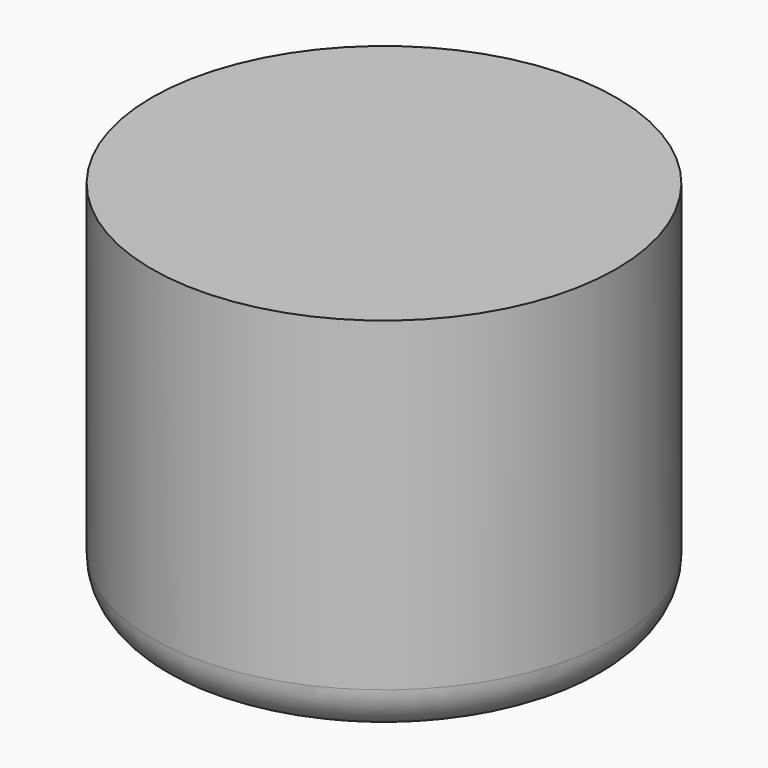
from build123d import *

# Parameters (mm, degrees)
F0_W = 12.7
F0_H = 20.32
F2_R = 2.54


with BuildPart() as f1:
    # F0 (on Front) → F1 (revolve)
    with BuildSketch(Plane.XZ):
        with Locations((-6.35, -35.580232)):
            Rectangle(F0_W, F0_H)
    revolve(axis=Axis((0, 0, -35.580232), (0, 0, -1)))

    # F2
    f2_edges = [f1.edges().sort_by_distance(p)[0] for p in [
        (12.7, 0, -45.740232),
    ]]
    fillet(f2_edges, radius=F2_R)


solid = f1.part
